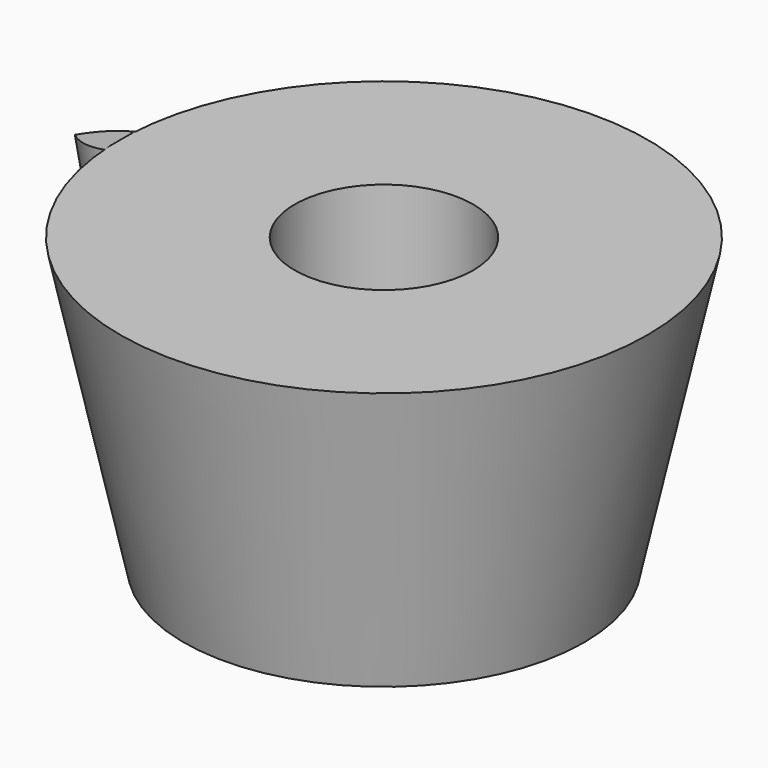
from build123d import *

# Parameters (mm, degrees)
F0_R     = 8.895
F2_R     = 11.725
F4_R     = 3.965
F5_DEPTH = 12.95
F9_DEPTH = 13.225


with BuildPart() as f3:
    # F0 (on Top) → F3 section 0
    with BuildSketch(Plane.XY):
        Circle(F0_R)
    # F2 (on offset) → F3 section 1
    with BuildSketch(Plane.XY.offset(12.95)):
        Circle(F2_R)
    loft()

    # F4 (on face) → F5 (cut)
    with BuildSketch(Plane.XY.offset(12.95)):
        Circle(F4_R)
    extrude(amount=-F5_DEPTH, mode=Mode.SUBTRACT)

    # F8 (on face) → F9 (join)
    with BuildSketch(Plane(origin=(-0.370918, 0, 1.775485), x_dir=(0.978867, 0, 0.204496), z_dir=(0.204496, 0, -0.978867))):
        with BuildLine():
            ThreePointArc((-8.665283, 0.869945), (-9.857422, 0.644661), (-10.88518, -5.5e-05))
            ThreePointArc((-10.88518, -5.5e-05), (-9.857417, -0.644773), (-8.665273, -0.870055))
            ThreePointArc((-8.665273, -0.870055), (-8.707081, -5.6e-05), (-8.665283, 0.869945))
        make_face()
    extrude(amount=-F9_DEPTH)


solid = f3.part
